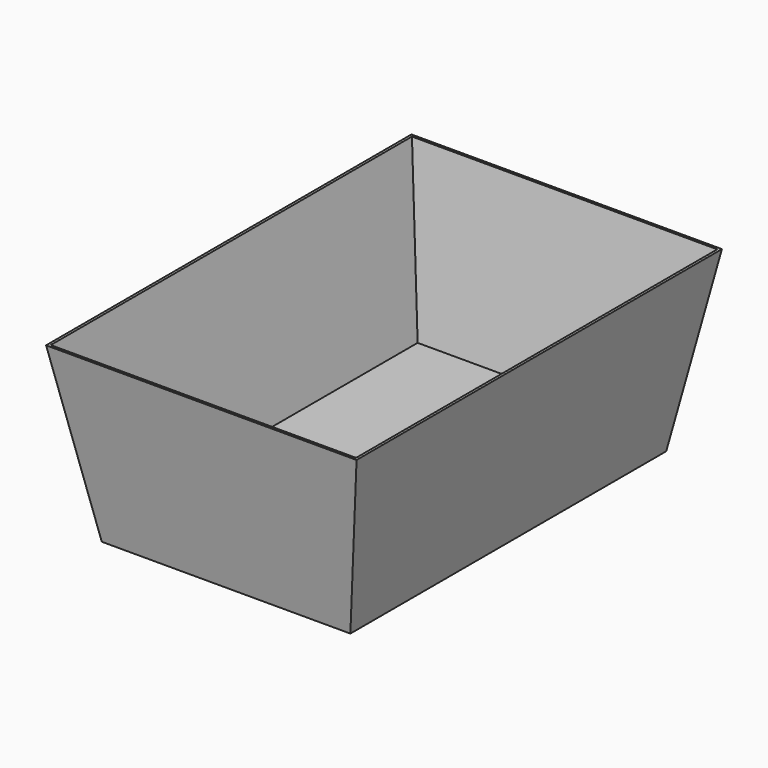
from build123d import *

# Parameters (mm, degrees)
F0_W     = 431.8
F0_H     = 685.8
F1_DEPTH = 304.8
F1_TAPER = -10
F3_W     = 431.8
F3_H     = 685.8
F4_DEPTH = 279.4
F4_TAPER = -10


with BuildPart() as f1:
    # F0 (on Top) → F1 (new body)
    with BuildSketch(Plane.XY):
        Rectangle(F0_W, F0_H)
    extrude(amount=F1_DEPTH, taper=F1_TAPER)

    # F3 (on offset) → F4 (cut)
    with BuildSketch(Plane.XY.offset(25.4)):
        Rectangle(F3_W, F3_H)
    extrude(amount=F4_DEPTH, taper=F4_TAPER, mode=Mode.SUBTRACT)


solid = f1.part
